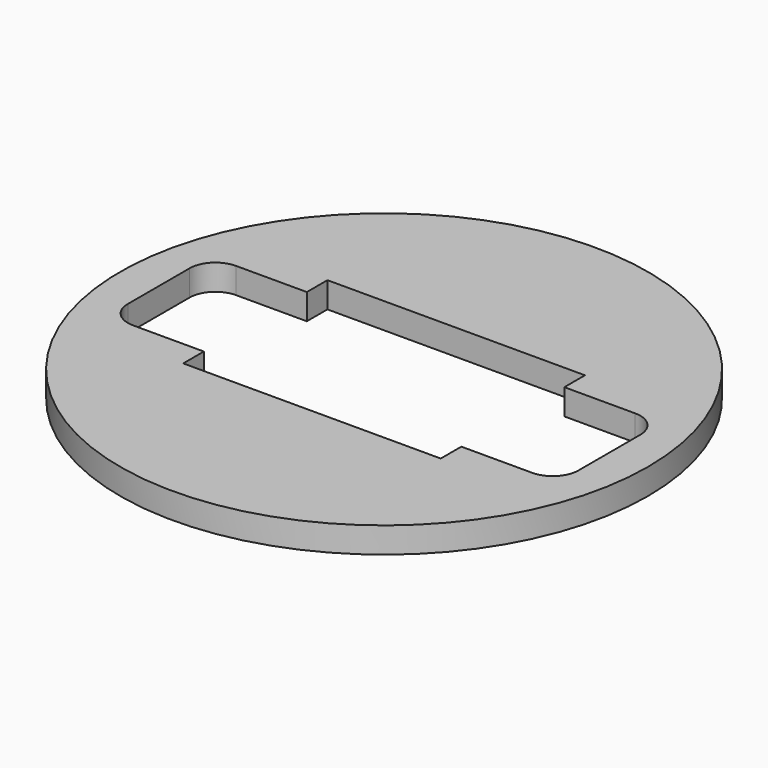
from build123d import *

# Parameters (mm, degrees)
SKETCH_R        = 41
PAD_DEPTH       = 4
SKETCH004_W     = 40
SKETCH004_H     = 4
POCKET002_DEPTH = 8.001


with BuildPart() as part:
    # Sketch → Pad (new body)
    with BuildSketch(Plane.XY.offset(4)):
        with Locations((195.179598, 75)):
            Circle(SKETCH_R)
        with BuildLine():
            Line((195.179598, 65), (226.179598, 65))
            ThreePointArc((226.179598, 65), (229.008025, 66.171573), (230.179598, 69))
            Line((230.179598, 69), (230.179598, 81))
            ThreePointArc((230.179598, 81), (229.008025, 83.828427), (226.179598, 85))
            Line((226.179598, 85), (195.179598, 85))
            Line((195.179598, 85), (164.179598, 85))
            ThreePointArc((164.179598, 85), (161.351171, 83.828427), (160.179598, 81))
            Line((160.179598, 81), (160.179598, 69))
            ThreePointArc((160.179598, 69), (161.351171, 66.171573), (164.179598, 65))
            Line((164.179598, 65), (195.179598, 65))
        make_face(mode=Mode.SUBTRACT)
    extrude(amount=PAD_DEPTH)

    # Sketch004 → Pocket002 (cut, through all)
    with BuildSketch(Plane.XY):
        with Locations((195.179598, 63)):
            Rectangle(SKETCH004_W, SKETCH004_H)
        with Locations((195.179598, 87)):
            Rectangle(SKETCH004_W, SKETCH004_H)
    extrude(amount=POCKET002_DEPTH, mode=Mode.SUBTRACT)


solid = part.part
